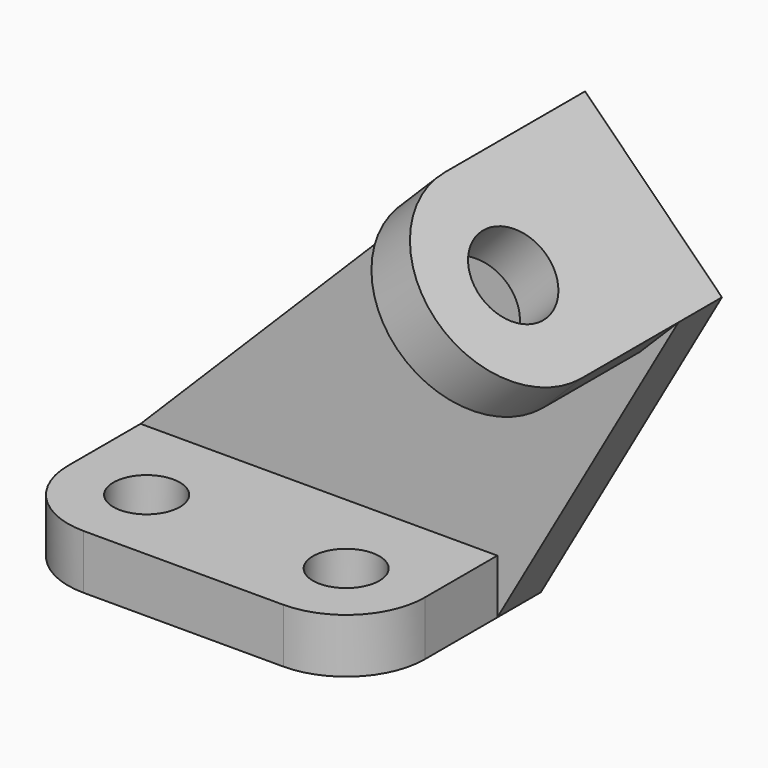
from build123d import *

# Parameters (mm, degrees)
F0_R     = 5.5
F1_DEPTH = 9
F3_DEPTH = 9
F4_R     = 7
F5_DEPTH = 9


with BuildPart() as f1:
    # F0 (on Top) → F1 (new body)
    with BuildSketch(Plane.XY):
        with BuildLine():
            Line((33, 0), (0, 0))
            Line((0, 0), (-13, 0))
            Line((-13, 0), (-13, -15))
            ThreePointArc((-13, -15), (-9.1923881554, -24.1923881554), (0, -28))
            Line((0, -28), (33, -28))
            ThreePointArc((33, -28), (42.1923881554, -24.1923881554), (46, -15))
            Line((46, -15), (46, 0))
            Line((46, 0), (33, 0))
        make_face()
        with Locations((0, -15)):
            Circle(F0_R, mode=Mode.SUBTRACT)
        with Locations((33, -15)):
            Circle(F0_R, mode=Mode.SUBTRACT)
    extrude(amount=F1_DEPTH)

    # F2 (on face) → F3 (join)
    with BuildSketch(Plane(origin=(0, 0, 0), x_dir=(-1, 0, 0), z_dir=(0, 1, 0))):
        Polygon((-75.941125497, 52.686291501), (-46, 0), (13, 0), (13, 9), (-53.313708499, 75.313708499), align=None)
    extrude(amount=F3_DEPTH)

    # F4 (on face) → F5 (join)
    with BuildSketch(Plane(origin=(64.313708499, 0, 64.313708499), x_dir=(0, 1, 0), z_dir=(0.7071067812, 0, 0.7071067812))):
        with BuildLine():
            Line((9, -16.4436508139), (9, 15.5563491861))
            Line((9, 15.5563491861), (-20, 15.5563491861))
            ThreePointArc((-20, 15.5563491861), (-36, -0.4436508139), (-20, -16.4436508139))
            Line((-20, -16.4436508139), (9, -16.4436508139))
        make_face()
        with Locations((-20, -0.4436508139)):
            Circle(F4_R, mode=Mode.SUBTRACT)
    extrude(amount=-F5_DEPTH)


solid = f1.part
